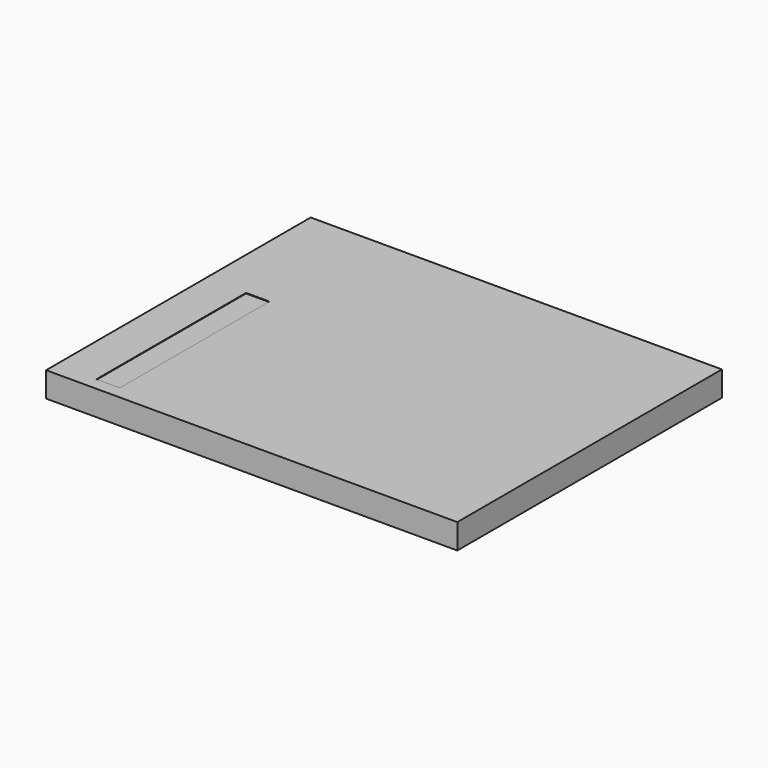
from build123d import *

# Parameters (mm, degrees)
BOX035_W     = 21.5
BOX035_H     = 172
BOX035_DEPTH = 1
BOX_W        = 378
BOX_H        = 304
BOX_DEPTH    = 23


with BuildPart() as cube035:
    # Box035 → Box035 (new body)
    with BuildSketch(Plane(origin=(-152, -140.5, -0.5), x_dir=(1, 0, 0), z_dir=(0, 0, 1))):
        with Locations((10.75, 86)):
            Rectangle(BOX035_W, BOX035_H)
    extrude(amount=BOX035_DEPTH)


with BuildPart() as obj1:
    # Box → Box (new body)
    with BuildSketch(Plane(origin=(-189, -152, -23), x_dir=(1, 0, 0), z_dir=(0, 0, 1))):
        with Locations((189, 152)):
            Rectangle(BOX_W, BOX_H)
    extrude(amount=BOX_DEPTH)

    # Cut: cut Cube035
    add(cube035.part, mode=Mode.SUBTRACT)


with BuildPart() as obj1_1:
    # Cut placement: moved
    add(obj1.part.moved(Location((0, 0, -0.2))))


solid = obj1_1.part
